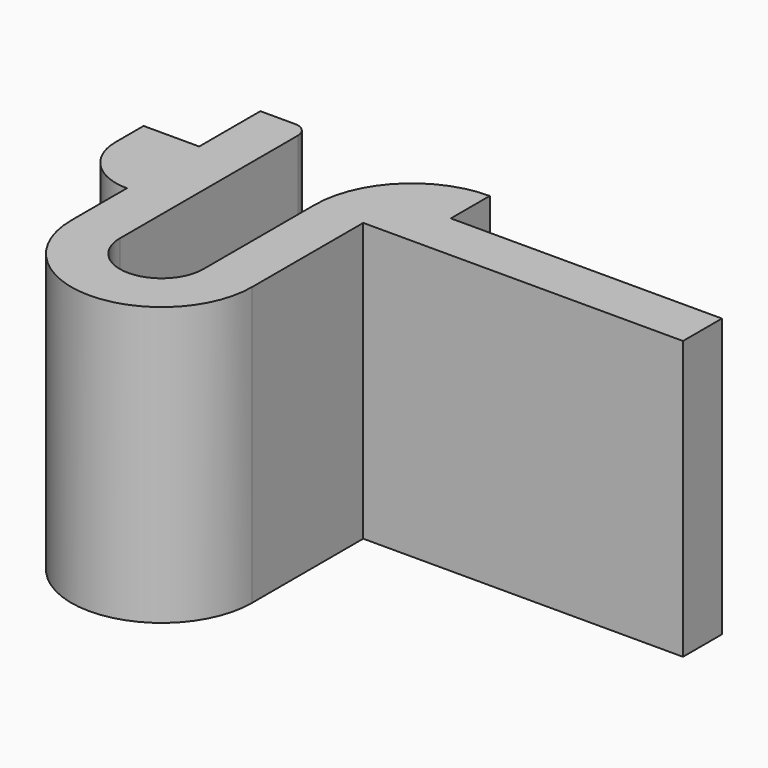
from build123d import *

# Parameters (mm, degrees)
F0_W     = 1.778
F0_H     = 5.08
F1_DEPTH = 10.16
F3_DEPTH = 1.016
F4_R     = 0.508


with BuildPart() as f1:
    # F0 (on Top) → F1 (new body)
    with BuildSketch(Plane.XY):
        Polygon((-3.302, 5.842), (-3.302, 5.08), (-1.524, 5.08), (-1.524, 8.636), (-3.302, 8.636), align=None)
        Polygon((-1.524, 5.08), (-3.302, 5.08), (-3.302, 4.572), (-3.302, 2.54), (-3.302, 0), (-1.524, 0), align=None)
        Polygon((-3.302, 4.572), (-3.302, 5.08), (-3.302, 5.842), (-5.334, 5.842), (-5.334, 4.572), align=None)
        with BuildLine():
            Line((-3.302, 2.54), (-3.302, 4.572))
            Line((-3.302, 4.572), (-5.334, 4.572))
            ThreePointArc((-5.334, 4.572), (-4.738841, 3.135159), (-3.302, 2.54))
        make_face()
        with BuildLine():
            ThreePointArc((1.524, 0), (0, -1.524), (-1.524, 0))
            Line((-1.524, 0), (-3.302, 0))
            ThreePointArc((-3.302, 0), (0, -3.302), (3.302, 0))
            Line((3.302, 0), (1.524, 0))
        make_face()
        with Locations((2.413, 2.54)):
            Rectangle(F0_W, F0_H)
        with BuildLine():
            ThreePointArc((5.08, 8.636), (2.565528, 7.594472), (1.524, 5.08))
            Line((1.524, 5.08), (3.302, 5.08))
            ThreePointArc((3.302, 5.08), (3.822764, 6.337236), (5.08, 6.858))
            Line((5.08, 6.858), (5.08, 8.636))
        make_face()
        with BuildLine():
            ThreePointArc((5.08, 6.858), (3.822764, 6.337236), (3.302, 5.08))
            Line((3.302, 5.08), (14.986, 5.08))
            Line((14.986, 5.08), (14.986, 6.858))
            Line((14.986, 6.858), (5.08, 6.858))
        make_face()
    extrude(amount=F1_DEPTH)

    # F2 (on face) → F3 (join)
    with BuildSketch(Plane(origin=(0, 8.636, 0), x_dir=(-1, 0, 0), z_dir=(0, 1, 0))):
        with BuildLine():
            Line((3.302, 6.35), (3.302, 3.81))
            ThreePointArc((3.302, 3.81), (4.572, 5.08), (3.302, 6.35))
        make_face()
    extrude(amount=-F3_DEPTH)

    # F4
    f4_edges = [f1.edges().sort_by_distance(p)[0] for p in [
        (-1.524, 8.636, 5.08),
    ]]
    fillet(f4_edges, radius=F4_R)


solid = f1.part
